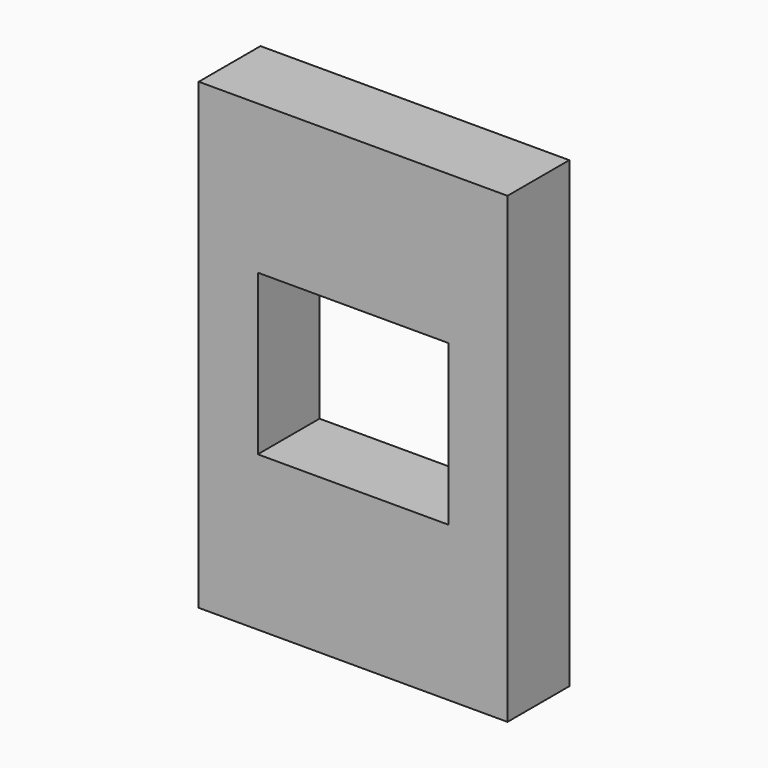
from build123d import *

# Parameters (mm, degrees)
F0_W     = 203.2
F0_H     = 304.8
F0_W_2   = 125.476
F0_H_2   = 59.863002
F0_W_3   = 77.724
F0_H_3   = 58.935668
F1_DEPTH = 50.8


with BuildPart() as f1:
    # F0 (on Front) → F1 (new body)
    with BuildSketch(Plane.XZ):
        Rectangle(F0_W, F0_H)
        Polygon((-38.862, -109.735668), (-38.862, -50.8), (-62.738, -50.8), (-62.738, 54.436998), (-62.738, 114.3), (62.738, 114.3), (62.738, 54.436998), (62.738, -50.8), (38.862, -50.8), (38.862, -109.735668), align=None, mode=Mode.SUBTRACT)
        with Locations((0, 84.368499)):
            Rectangle(F0_W_2, F0_H_2)
        with Locations((0, -80.267834)):
            Rectangle(F0_W_3, F0_H_3)
    extrude(amount=F1_DEPTH)


solid = f1.part
